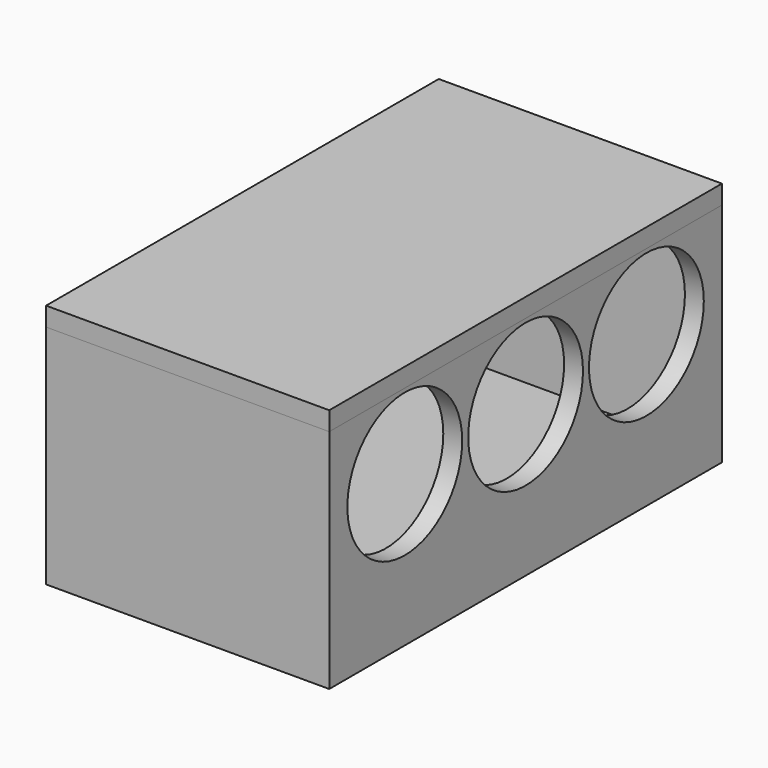
from build123d import *

# Parameters (mm, degrees)
F0_W     = 75
F0_H     = 130
F0_W_2   = 65
F0_H_2   = 120
F1_DEPTH = 55
F2_W     = 75
F2_H     = 130
F3_DEPTH = 5
F4_W     = 75
F4_H     = 130
F5_DEPTH = 5
F6_R     = 19
F7_DEPTH = 75.001


with BuildPart() as f1:
    # F0 (on Top) → F1 (new body)
    with BuildSketch(Plane.XY):
        Rectangle(F0_W, F0_H)
        Rectangle(F0_W_2, F0_H_2, mode=Mode.SUBTRACT)
    extrude(amount=F1_DEPTH)

    # F2 (on Top) → F3 (join)
    with BuildSketch(Plane.XY):
        Rectangle(F2_W, F2_H)
    extrude(amount=-F3_DEPTH)

    # F6 (on face) → F7 (cut, through all)
    with BuildSketch(Plane.YZ.offset(37.5)):
        with Locations((-40, 35)):
            Circle(F6_R)
        with Locations((0, 35)):
            Circle(F6_R)
        with Locations((40, 35)):
            Circle(F6_R)
    extrude(amount=-F7_DEPTH, mode=Mode.SUBTRACT)


with BuildPart() as f5:
    # F4 (on face) → F5 (new body)
    with BuildSketch(Plane.XY.offset(55)):
        Rectangle(F4_W, F4_H)
    extrude(amount=F5_DEPTH)


solid = Compound([f1.part, f5.part])
